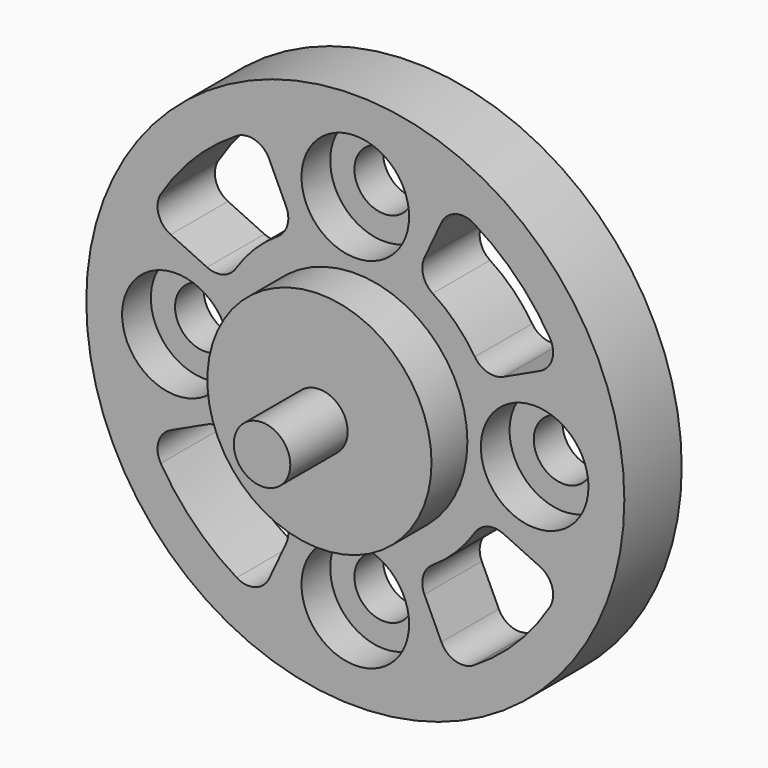
from build123d import *

# Parameters (mm, degrees)
F0_R     = 30
F0_R_2   = 3.3
F1_DEPTH = 8
F2_R     = 6
F3_DEPTH = 4
F4_R     = 12.5
F5_DEPTH = 5
F6_R     = 3.15
F7_DEPTH = 8
F9_DEPTH = 25.4


with BuildPart() as f1:
    # F0 (on Front) → F1 (new body)
    with BuildSketch(Plane.XZ):
        Circle(F0_R)
        with Locations((0, -20)):
            Circle(F0_R_2, mode=Mode.SUBTRACT)
        with Locations((-20, 0)):
            Circle(F0_R_2, mode=Mode.SUBTRACT)
        with Locations((20, 0)):
            Circle(F0_R_2, mode=Mode.SUBTRACT)
        with Locations((0, 20)):
            Circle(F0_R_2, mode=Mode.SUBTRACT)
    extrude(amount=F1_DEPTH)

    # F2 (on face) → F3 (cut)
    with BuildSketch(Plane.XZ.offset(8)):
        with Locations((0, 20)):
            Circle(F2_R)
        with Locations((-20, 0)):
            Circle(F2_R)
        with Locations((20, 0)):
            Circle(F2_R)
        with Locations((0, -20)):
            Circle(F2_R)
    extrude(amount=-F3_DEPTH, mode=Mode.SUBTRACT)

    # F4 (on face) → F5 (join)
    with BuildSketch(Plane.XZ.offset(8)):
        Circle(F4_R)
    extrude(amount=F5_DEPTH)

    # F6 (on face) → F7 (join)
    with BuildSketch(Plane.XZ.offset(13)):
        Circle(F6_R)
    extrude(amount=F7_DEPTH)

    # F8 (on face) → F9 (cut)
    with BuildSketch(Plane.XZ.offset(8)):
        with BuildLine():
            ThreePointArc((-13.324728, 8.62944), (-11.22532, 11.22532), (-8.62944, 13.324728))
            ThreePointArc((-8.62944, 13.324728), (-7.568985, 14.755035), (-7.708129, 16.530135))
            Line((-7.708129, 16.530135), (-9.601232, 20.589909))
            ThreePointArc((-9.601232, 20.589909), (-11.168675, 21.947918), (-13.225838, 21.684954))
            ThreePointArc((-13.225838, 21.684954), (-17.960512, 17.960512), (-21.684954, 13.225838))
            ThreePointArc((-21.684954, 13.225838), (-21.947918, 11.168675), (-20.589909, 9.601232))
            Line((-20.589909, 9.601232), (-16.530135, 7.708129))
            ThreePointArc((-16.530135, 7.708129), (-14.755035, 7.568985), (-13.324728, 8.62944))
        make_face()
        with BuildLine():
            ThreePointArc((-20.589909, -9.601232), (-21.947918, -11.168675), (-21.684954, -13.225838))
            ThreePointArc((-21.684954, -13.225838), (-17.960512, -17.960512), (-13.225838, -21.684954))
            ThreePointArc((-13.225838, -21.684954), (-11.168675, -21.947918), (-9.601232, -20.589909))
            Line((-9.601232, -20.589909), (-7.708129, -16.530135))
            ThreePointArc((-7.708129, -16.530135), (-7.568985, -14.755035), (-8.62944, -13.324728))
            ThreePointArc((-8.62944, -13.324728), (-11.22532, -11.22532), (-13.324728, -8.62944))
            ThreePointArc((-13.324728, -8.62944), (-14.755035, -7.568985), (-16.530135, -7.708129))
            Line((-16.530135, -7.708129), (-20.589909, -9.601232))
        make_face()
        with BuildLine():
            ThreePointArc((9.601232, -20.589909), (11.168675, -21.947918), (13.225838, -21.684954))
            ThreePointArc((13.225838, -21.684954), (17.960512, -17.960512), (21.684954, -13.225838))
            ThreePointArc((21.684954, -13.225838), (21.947918, -11.168675), (20.589909, -9.601232))
            Line((20.589909, -9.601232), (16.530135, -7.708129))
            ThreePointArc((16.530135, -7.708129), (14.755035, -7.568985), (13.324728, -8.62944))
            ThreePointArc((13.324728, -8.62944), (11.22532, -11.22532), (8.62944, -13.324728))
            ThreePointArc((8.62944, -13.324728), (7.568985, -14.755035), (7.708129, -16.530135))
            Line((7.708129, -16.530135), (9.601232, -20.589909))
        make_face()
        with BuildLine():
            ThreePointArc((20.589909, 9.601232), (21.947918, 11.168675), (21.684954, 13.225838))
            ThreePointArc((21.684954, 13.225838), (17.960512, 17.960512), (13.225838, 21.684954))
            ThreePointArc((13.225838, 21.684954), (11.168675, 21.947918), (9.601232, 20.589909))
            Line((9.601232, 20.589909), (7.708129, 16.530135))
            ThreePointArc((7.708129, 16.530135), (7.568985, 14.755035), (8.62944, 13.324728))
            ThreePointArc((8.62944, 13.324728), (11.22532, 11.22532), (13.324728, 8.62944))
            ThreePointArc((13.324728, 8.62944), (14.755035, 7.568985), (16.530135, 7.708129))
            Line((16.530135, 7.708129), (20.589909, 9.601232))
        make_face()
    extrude(amount=-F9_DEPTH, mode=Mode.SUBTRACT)


solid = f1.part
